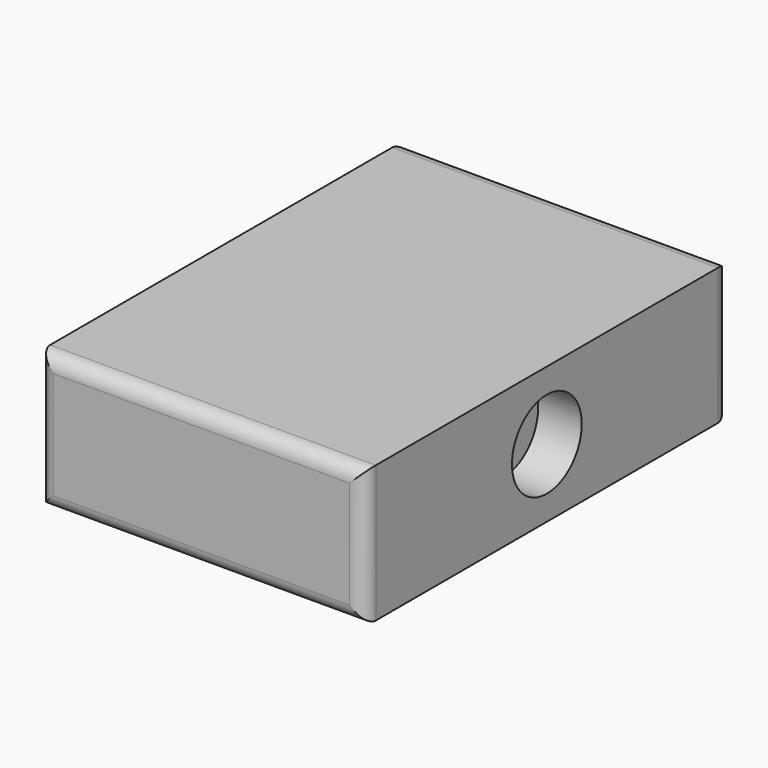
from build123d import *

# Parameters (mm, degrees)
F0_W     = 224
F0_H     = 94
F1_DEPTH = 157
F2_R     = 10
F3_R     = 10
F5_R     = 30
F6_DEPTH = 30


with BuildPart() as f1:
    # F0 (on Front) → F1 (new body, symmetric)
    with BuildSketch(Plane.XZ):
        Rectangle(F0_W, F0_H)
    extrude(amount=F1_DEPTH, both=True)

    # F2
    f2_edges = [f1.edges().sort_by_distance(p)[0] for p in [
        (-112, -157, 0),
        (0, -157, -47),
        (112, -157, 0),
        (0, -157, 47),
    ]]
    fillet(f2_edges, radius=F2_R)

    # F3
    f3_edges = [f1.edges().sort_by_distance(p)[0] for p in [
        (-112, 157, 0),
        (0, 157, -47),
        (112, 157, 0),
        (0, 157, 47),
    ]]
    fillet(f3_edges, radius=F3_R)

    # F5 (on offset) → F6 (cut)
    with BuildSketch(Plane.YZ.offset(82)):
        Circle(F5_R)
    extrude(amount=F6_DEPTH, mode=Mode.SUBTRACT)


solid = f1.part
